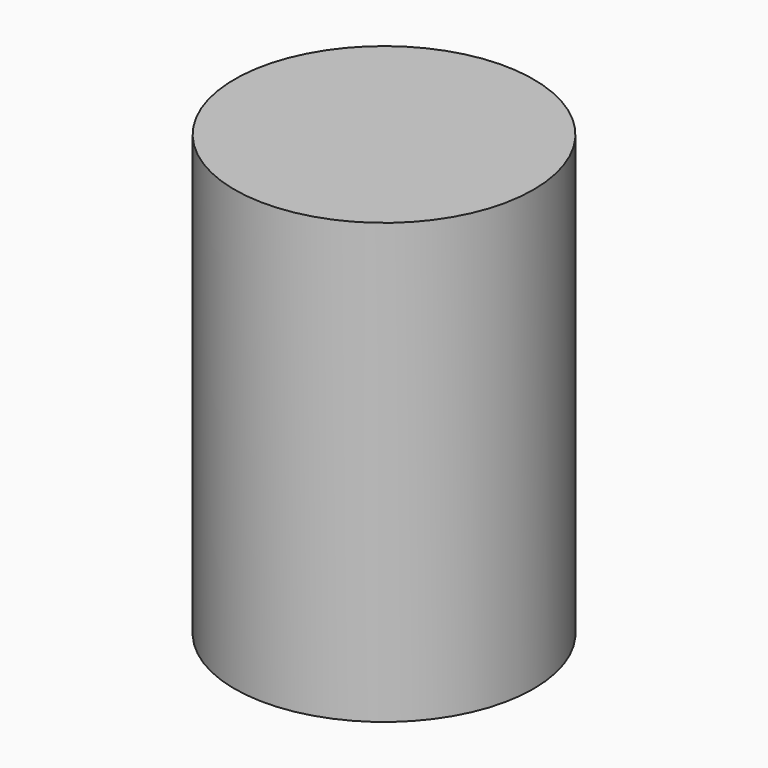
from build123d import *

# Parameters (mm, degrees)
F0_R      = 216.727836
F1_DEPTH  = 116.332
F1_FACE_R = 216.727836
F3_DEPTH  = 520.7
F2_R      = 190.087444
F4_DEPTH  = 594.36


with BuildPart() as f1:
    # F0 (on Top) → F1 (new body)
    with BuildSketch(Plane.XY):
        Circle(F0_R)
    extrude(amount=F1_DEPTH)

    # F1_face (on face) → F3 (join)
    with BuildSketch(Plane.XY.offset(116.332)):
        Circle(F1_FACE_R)
    extrude(amount=F3_DEPTH)

    # F2 (on Top) → F4 (cut)
    with BuildSketch(Plane.XY):
        Circle(F2_R)
    extrude(amount=F4_DEPTH, mode=Mode.SUBTRACT)


solid = f1.part
